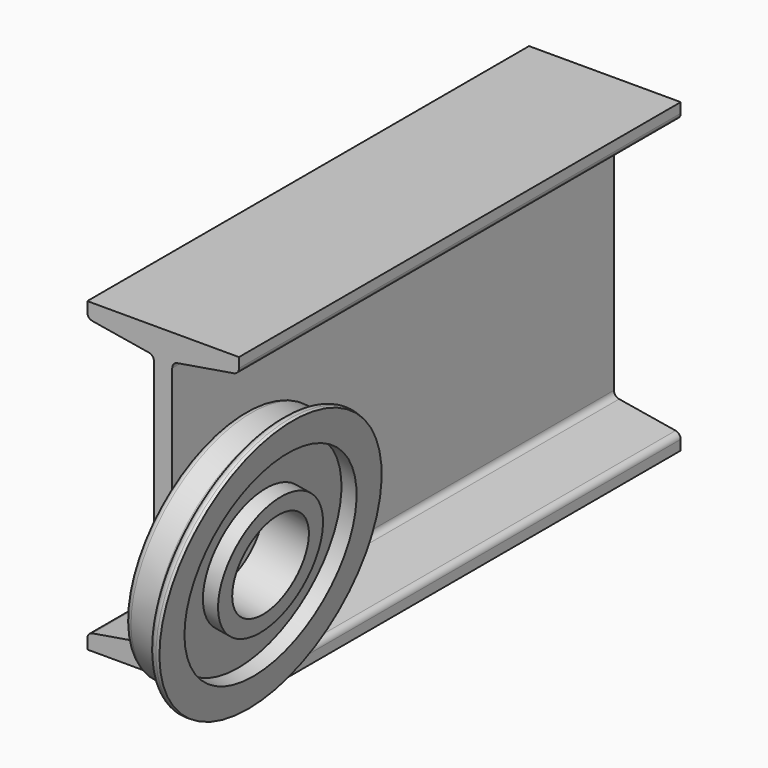
from build123d import *

# Parameters (mm, degrees)
F1_DEPTH = 457.2
F2_R     = 5.08
F5_R     = 5.08


with BuildPart() as f1:
    # F0 (on Front) → F1 (new body)
    with BuildSketch(Plane.XZ):
        Polygon((7.5438, -105.3211), (7.5438, 105.3211), (47.5488, 111.9886), (47.5488, 114.5286), (62.7888, 114.5286), (62.7888, 127), (-62.7888, 127), (-62.7888, 114.5286), (-47.5488, 114.5286), (-47.5488, 111.9886), (-7.5438, 105.3211), (-7.5438, -105.3211), (-47.5488, -111.9886), (-47.5488, -114.5286), (-62.7888, -114.5286), (-62.7888, -127), (62.7888, -127), (62.7888, -114.5286), (59.7353338065, -114.0196889677), align=None)
        Polygon((47.5488, 114.5286), (47.5488, 111.9886), (62.7888, 114.5286), align=None)
        Polygon((-47.5488, 114.5286), (-62.7888, 114.5286), (-47.5488, 111.9886), align=None)
        Polygon((-47.5488, -111.9886), (-62.7888, -114.5286), (-47.5488, -114.5286), align=None)
    extrude(amount=-F1_DEPTH)

    # F2
    f2_edges = [f1.edges().sort_by_distance(p)[0] for p in [
        (7.5438, 228.6, -105.3211),
        (-7.5438, 228.6, -105.3211),
        (-7.5438, 228.6, 105.3211),
        (7.5438, 228.6, 105.3211),
        (62.7888, 228.6, -114.5286),
        (-62.7888, 228.6, -114.5286),
        (-62.7888, 228.6, 114.5286),
        (62.7888, 228.6, 114.5286),
    ]]
    fillet(f2_edges, radius=F2_R)


with BuildPart() as f4:
    # F3 (on face) → F4 (revolve)
    with BuildSketch(Plane.XZ):
        with BuildLine():
            Line((34.6436347452, -109.8377391242), (58.5439468555, -113.8211244759))
            ThreePointArc((58.5439468555, -113.8211244759), (61.584941511, -115.5484211366), (62.7888, -118.832005609))
            Line((62.7888, -118.832005609), (62.7888, -127))
            Line((62.7888, -127), (70.4088, -127))
            Line((70.4088, -127), (74.5845342776, -101.9455943347))
            Line((74.5845342776, -101.9455943347), (62.0573320043, -99.8577272891))
            Line((62.0573320043, -99.8577272891), (67.6497483741, -66.3032290705))
            Line((67.6497483741, -66.3032290705), (80.1769506473, -68.391096116))
            Line((80.1769506473, -68.391096116), (82.5362416816, -54.2353499101))
            Line((82.5362416816, -54.2353499101), (44.9546331836, -47.9717484938))
            Line((44.9546331836, -47.9717484938), (42.5953421493, -62.1274946997))
            Line((42.5953421493, -62.1274946997), (55.1225444226, -64.2153617452))
            Line((55.1225444226, -64.2153617452), (49.5301280528, -97.7698599639))
            Line((49.5301280528, -97.7698599639), (37.0029257796, -95.6819929183))
            Line((37.0029257796, -95.6819929183), (34.6436347452, -109.8377391242))
        make_face()
    revolve(axis=Axis((61.995234676, 0, -11.3948935996), (0.9863939238, 0, -0.1643989873)))

    # F5
    f5_edges = [f4.edges().sort_by_distance(p)[0] for p in [
        (68.049509, 0, 90.597506),
        (97.590373, 0, 89.977434),
        (100.239453, 0, 97.703916),
        (62.7888, 0, -122.916003),
    ]]
    fillet(f5_edges, radius=F5_R)


solid = Compound([f1.part, f4.part])
